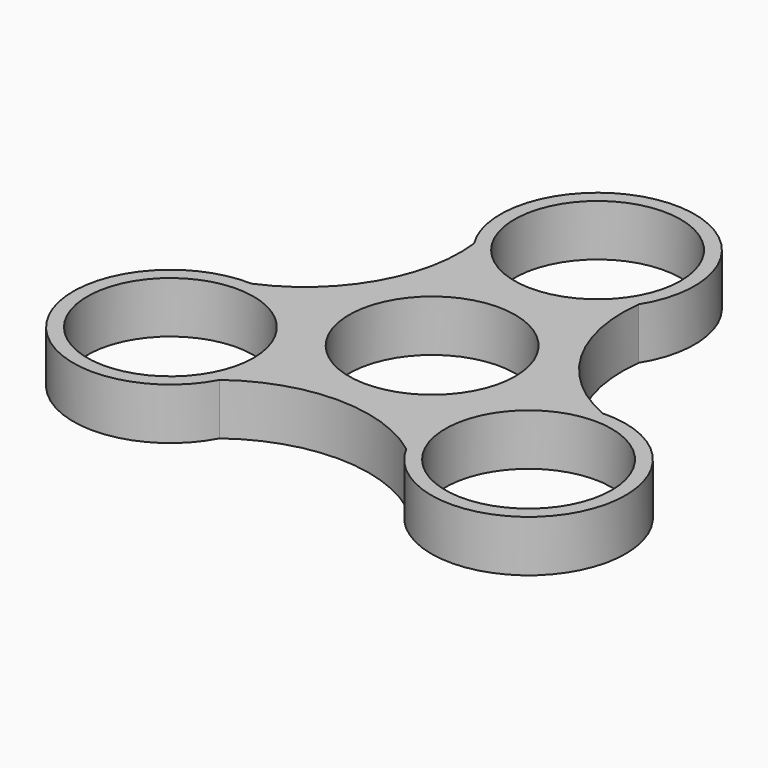
from build123d import *

# Parameters (mm, degrees)
F0_R     = 11.3
F1_DEPTH = 7


with BuildPart() as f1:
    # F0 (on Top) → F1 (new body)
    with BuildSketch(Plane.XY):
        with BuildLine():
            ThreePointArc((23.867873, -0.85373), (13.860575, 8.006113), (11.19146, 21.102626))
            ThreePointArc((11.19146, 21.102626), (-0.000822, 41.301999), (-11.190588, 21.101233))
            ThreePointArc((-11.190588, 21.101233), (-13.859788, 8.004737), (-23.867143, -0.855041))
            ThreePointArc((-23.867143, -0.855041), (-35.764173, -20.647527), (-12.674913, -20.237766))
            ThreePointArc((-12.674913, -20.237766), (0.001585, -16.001114), (12.678055, -20.237848))
            ThreePointArc((12.678055, -20.237848), (35.767366, -20.644735), (23.867873, -0.85373))
        make_face()
        with Locations((-24.333049, -14.046816)):
            Circle(F0_R, mode=Mode.SUBTRACT)
        Circle(F0_R, mode=Mode.SUBTRACT)
        with Locations((24.33542, -14.045447)):
            Circle(F0_R, mode=Mode.SUBTRACT)
        with Locations((0, 28.101999)):
            Circle(F0_R, mode=Mode.SUBTRACT)
    extrude(amount=F1_DEPTH)


solid = f1.part
